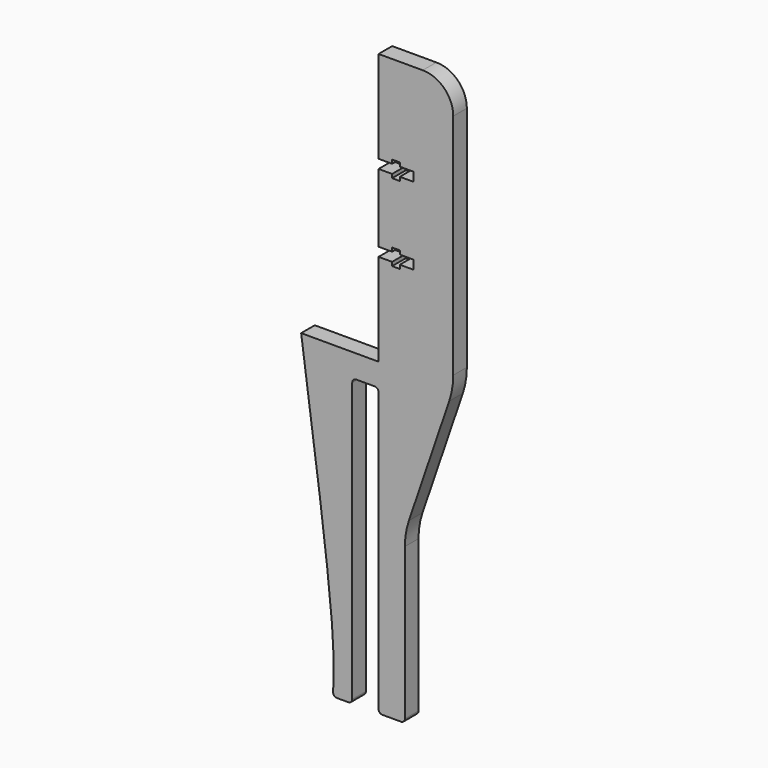
from build123d import *

# Parameters (mm, degrees)
F1_DEPTH = 5.588


with BuildPart() as f1:
    # F0 (on Front) → F1 (new body)
    with BuildSketch(Plane.XZ):
        with BuildLine():
            Line((14.5, 88.9), (0, 88.9))
            Line((0, 88.9), (0, 58.6105))
            Line((0, 58.6105), (4.445, 58.6105))
            Line((4.445, 58.6105), (4.445, 59.84367))
            Line((4.445, 59.84367), (6.985, 59.84367))
            Line((6.985, 59.84367), (6.985, 58.6105))
            Line((6.985, 58.6105), (11.43, 58.6105))
            Line((11.43, 58.6105), (11.43, 55.6895))
            Line((11.43, 55.6895), (6.985, 55.6895))
            Line((6.985, 55.6895), (6.985, 54.45633))
            Line((6.985, 54.45633), (4.445, 54.45633))
            Line((4.445, 54.45633), (4.445, 55.6895))
            Line((4.445, 55.6895), (0, 55.6895))
            Line((0, 55.6895), (0, 33.2105))
            Line((0, 33.2105), (4.445, 33.2105))
            Line((4.445, 33.2105), (4.445, 34.44367))
            Line((4.445, 34.44367), (6.985, 34.44367))
            Line((6.985, 34.44367), (6.985, 33.2105))
            Line((6.985, 33.2105), (11.43, 33.2105))
            Line((11.43, 33.2105), (11.43, 30.2895))
            Line((11.43, 30.2895), (6.985, 30.2895))
            Line((6.985, 30.2895), (6.985, 29.05633))
            Line((6.985, 29.05633), (4.445, 29.05633))
            Line((4.445, 29.05633), (4.445, 30.2895))
            Line((4.445, 30.2895), (0, 30.2895))
            Line((0, 30.2895), (0, 0))
            Line((0, 0), (-25.4, 0))
            add(Edge.make_bspline(
                [(-25.4, 0), (-20.725470458, -33.7181893079), (-14.1865338132, -80.8846692019), (-14.7107101133, -96.1594783165), (-14.9168693674, -100.2586588016)],
                knots=[0, 0, 0, 0, 0.6932184802, 0.9697043696, 0.9697043696, 0.9697043696, 0.9697043696], degree=3))
            ThreePointArc((-14.9168693674, -100.2586588016), (-14.5668049774, -101.2029465661), (-13.6412926706, -101.6))
            Line((-13.6412926706, -101.6), (-9.9131888779, -101.6))
            ThreePointArc((-9.9131888779, -101.6), (-9.0100799615, -101.2259200385), (-8.636, -100.3228111221))
            Line((-8.636, -100.3228111221), (-8.636, -8.8183871613))
            ThreePointArc((-8.636, -8.8183871613), (-8.2619200385, -7.9152782449), (-7.3588111221, -7.5411982834))
            Line((-7.3588111221, -7.5411982834), (-1.2771888779, -7.5411982834))
            ThreePointArc((-1.2771888779, -7.5411982834), (-0.3740799615, -7.9152782449), (0, -8.8183871613))
            Line((0, -8.8183871613), (0, -100.3228111221))
            ThreePointArc((0, -100.3228111221), (0.3740799615, -101.2259200385), (1.2771888779, -101.6))
            Line((1.2771888779, -101.6), (7.3588111221, -101.6))
            ThreePointArc((7.3588111221, -101.6), (8.2619200385, -101.2259200385), (8.636, -100.3228111221))
            Line((8.636, -100.3228111221), (8.636, -50.5860968341))
            ThreePointArc((8.636, -50.5860968341), (8.9659842465, -46.5785616218), (9.947048039, -42.6789793473))
            Line((9.947048039, -42.6789793473), (23.188951961, -3.844868885))
            ThreePointArc((23.188951961, -3.844868885), (24.1700157535, 0.0547133896), (24.5, 4.0622486018))
            Line((24.5, 4.0622486018), (24.5, 78.9))
            ThreePointArc((24.5, 78.9), (21.5710678119, 85.9710678119), (14.5, 88.9))
        make_face()
    extrude(amount=F1_DEPTH)


solid = f1.part
